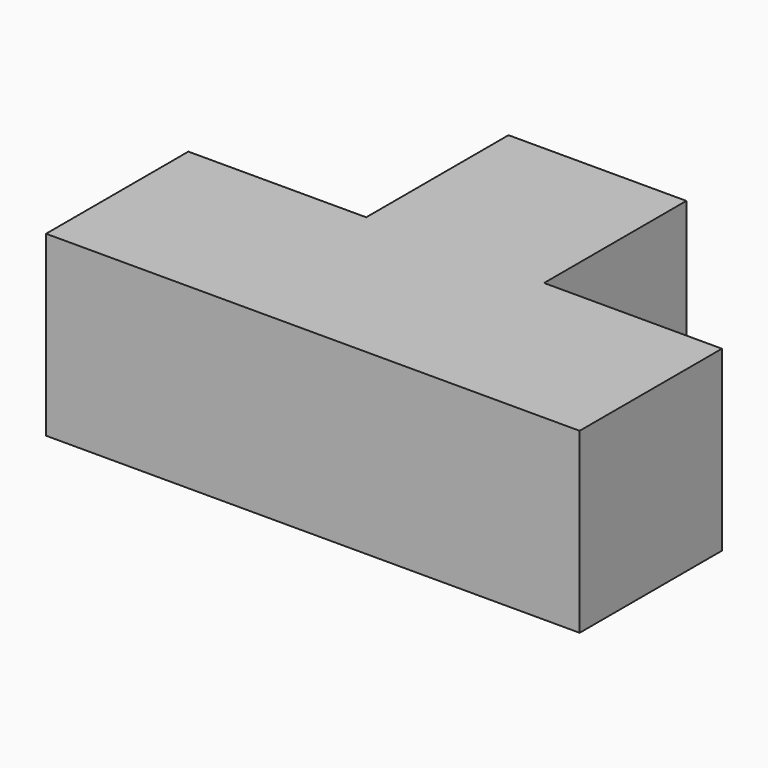
from build123d import *

# Parameters (mm, degrees)
F0_W     = 57.15
F0_H     = 19.05
F1_DEPTH = 19.05
F2_W     = 19.05
F2_H     = 19.05
F3_DEPTH = 19.05


with BuildPart() as f1:
    # F0 (on Front) → F1 (new body)
    with BuildSketch(Plane.XZ):
        with Locations((-0.901183, 2.949485)):
            Rectangle(F0_W, F0_H)
    extrude(amount=-F1_DEPTH)

    # F2 (on face) → F3 (join)
    with BuildSketch(Plane(origin=(0, 19.05, 0), x_dir=(-1, 0, 0), z_dir=(0, 1, 0))):
        with Locations((0.901183, 2.949485)):
            Rectangle(F2_W, F2_H)
    extrude(amount=F3_DEPTH)


solid = f1.part
